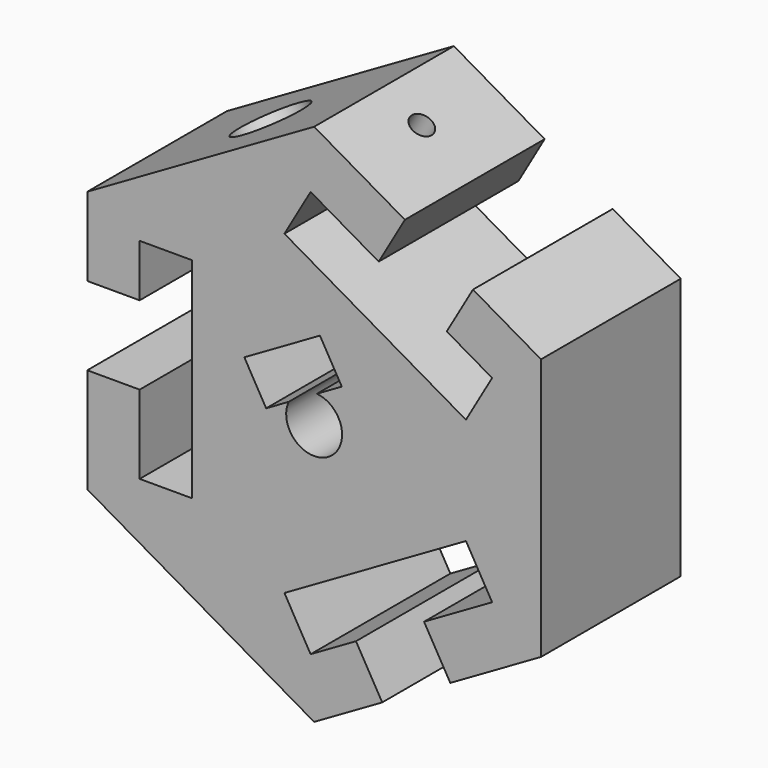
from build123d import *

# Parameters (mm, degrees)
F1_DEPTH  = 10
F3_DEPTH  = 20
F4_R      = 1.3
F5_DEPTH  = 25
F4_R_2    = 4
F6_DEPTH  = 10
F8_R      = 1.3
F9_DEPTH  = 8
F7_R      = 1.3
F10_DEPTH = 8
F11_R     = 1.3
F12_DEPTH = 8


with BuildPart() as f1:
    # F0 (on Front) → F1 (new body, symmetric)
    with BuildSketch(Plane.XZ):
        Polygon((25.9807621135, -15), (25.9807621135, 15), (18.1865334795, 19.5), (15.1865334795, 14.3038475773), (20.3826859022, 11.3038475773), (17.3826859022, 6.1076951546), (-3.4019237886, 18.1076951546), (-0.4019237886, 23.3038475773), (7.3923048454, 18.8038475773), (10.3923048454, 24), (0, 30), (-25.9807621135, 15), (-25.9807621135, 6), (-19.9807621135, 6), (-19.9807621135, 12), (-13.9807621135, 12), (-13.9807621135, -12), (-19.9807621135, -12), (-19.9807621135, -3), (-25.9807621135, -3), (-25.9807621135, -15), (0, -30), (7.7942286341, -25.5), (4.7942286341, -20.3038475773), (-0.4019237886, -23.3038475773), (-3.4019237886, -18.1076951546), (17.3826859022, -6.1076951546), (20.3826859022, -11.3038475773), (12.5884572681, -15.8038475773), (15.5884572681, -21), align=None)
    extrude(amount=F1_DEPTH, both=True)

    # F2 (on face) → F3 (cut)
    with BuildSketch(Plane.XZ.offset(10)):
        with BuildLine():
            ThreePointArc((-2.9155494421, 1.3189281445), (-0.6746264837, -3.1280791402), (3.2, 0))
            ThreePointArc((3.2, 0), (2.3716827586, 2.1482832431), (0.3155494421, 3.1844039551))
            ThreePointArc((0.3155494421, 3.1844039551), (-1.6, 2.7712812921), (-2.9155494421, 1.3189281445))
        make_face()
        with BuildLine():
            ThreePointArc((-2.9155494421, 1.3189281445), (-1.6, 2.7712812921), (0.3155494421, 3.1844039551))
            Line((0.3155494421, 3.1844039551), (3.1670527423, 4.8307201531))
            Line((3.1670527423, 4.8307201531), (0.6670527423, 9.160847172))
            Line((0.6670527423, 9.160847172), (-7.9932012956, 4.160847172))
            Line((-7.9932012956, 4.160847172), (-5.4932012956, -0.1692798469))
            Line((-5.4932012956, -0.1692798469), (-2.9155494421, 1.3189281445))
        make_face()
    extrude(amount=-F3_DEPTH, mode=Mode.SUBTRACT)

    # F4 (on face) → F5 (cut)
    with BuildSketch(Plane(origin=(-12.9903810568, 0, 22.5), x_dir=(0.8660254038, 0, 0.5), z_dir=(-0.5, 0, 0.8660254038))):
        Circle(F4_R)
    extrude(amount=-F5_DEPTH, mode=Mode.SUBTRACT)

    # F4 (on face) → F6 (cut)
    with BuildSketch(Plane(origin=(-12.9903810568, 0, 22.5), x_dir=(0.8660254038, 0, 0.5), z_dir=(-0.5, 0, 0.8660254038))):
        Circle(F4_R_2)
        Circle(F4_R, mode=Mode.SUBTRACT)
    extrude(amount=-F6_DEPTH, mode=Mode.SUBTRACT)

    # F8 (on face) → F9 (cut)
    with BuildSketch(Plane(origin=(12.9903810568, 0, 22.5), x_dir=(0.8660254038, 0, -0.5), z_dir=(0.5, 0, 0.8660254038))):
        with Locations((-10, 0)):
            Circle(F8_R)
    extrude(amount=-F9_DEPTH, mode=Mode.SUBTRACT)

    # F7 (on face) → F10 (cut)
    with BuildSketch(Plane(origin=(12.9903810568, 0, -22.5), x_dir=(0.8660254038, 0, 0.5), z_dir=(0.5, 0, -0.8660254038))):
        with Locations((10, 0)):
            Circle(F7_R)
    extrude(amount=-F10_DEPTH, mode=Mode.SUBTRACT)

    # F11 (on face) → F12 (cut)
    with BuildSketch(Plane(origin=(-25.9807621135, 0, 0), x_dir=(0, -1, 0), z_dir=(-1, 0, 0))):
        with Locations((0, -10)):
            Circle(F11_R)
    extrude(amount=-F12_DEPTH, mode=Mode.SUBTRACT)


solid = f1.part
